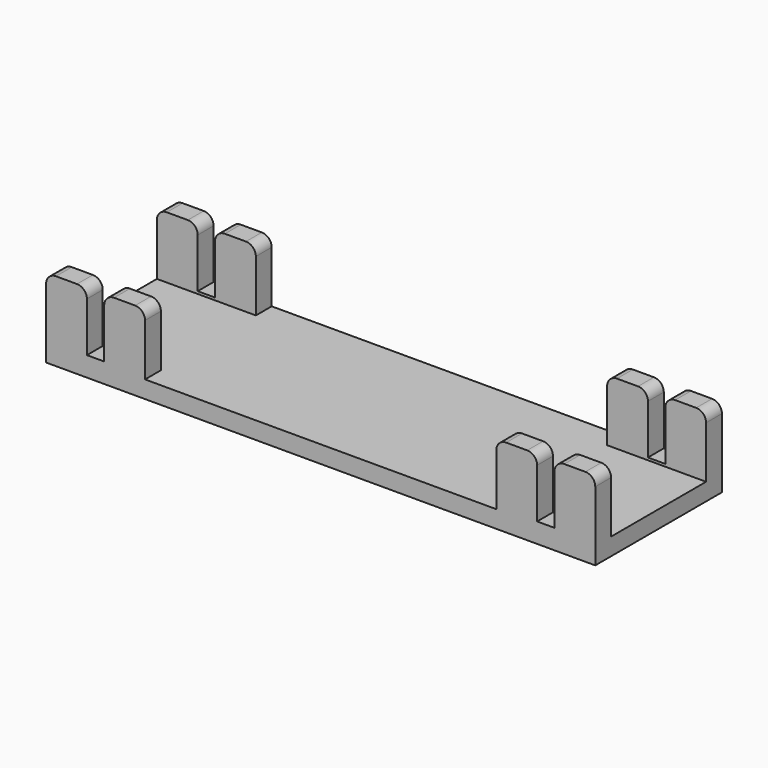
from build123d import *

# Parameters (mm, degrees)
BOX001_W     = 1.75
BOX001_H     = 2
BOX001_DEPTH = 10
BOX_W        = 10
BOX_H        = 2
BOX_DEPTH    = 8
FILLET_R     = 1
BOX003_W     = 1.75
BOX003_H     = 2
BOX003_DEPTH = 10
BOX002_W     = 10
BOX002_H     = 2
BOX002_DEPTH = 8
FILLET001_R  = 1
BOX005_W     = 1.75
BOX005_H     = 2
BOX005_DEPTH = 10
BOX004_W     = 10
BOX004_H     = 2
BOX004_DEPTH = 8
FILLET002_R  = 1
BOX007_W     = 1.75
BOX007_H     = 2
BOX007_DEPTH = 10
BOX006_W     = 10
BOX006_H     = 2
BOX006_DEPTH = 8
FILLET003_R  = 1
BOX008_W     = 55.5
BOX008_H     = 16
BOX008_DEPTH = 1.75


with BuildPart() as cube001:
    # Box001 → Box001 (new body)
    with BuildSketch(Plane(origin=(4.125, 0, 2), x_dir=(1, 0, 0), z_dir=(0, 0, 1))):
        with Locations((0.875, 1)):
            Rectangle(BOX001_W, BOX001_H)
    extrude(amount=BOX001_DEPTH)


with BuildPart() as post01:
    # Box → Box (new body)
    with BuildSketch(Plane.XY):
        with Locations((5, 1)):
            Rectangle(BOX_W, BOX_H)
    extrude(amount=BOX_DEPTH)

    # Cut: cut Cube001
    add(cube001.part, mode=Mode.SUBTRACT)

    # Fillet
    fillet_edges = [post01.edges().sort_by_distance(p)[0] for p in [
        (0, 1, 8),
        (4.125, 1, 8),
        (10, 1, 8),
        (5.875, 1, 8),
    ]]
    fillet(fillet_edges, radius=FILLET_R)


with BuildPart() as cube003:
    # Box003 → Box003 (new body)
    with BuildSketch(Plane(origin=(4.125, 0, 2), x_dir=(1, 0, 0), z_dir=(0, 0, 1))):
        with Locations((0.875, 1)):
            Rectangle(BOX003_W, BOX003_H)
    extrude(amount=BOX003_DEPTH)


with BuildPart() as post002:
    # Box002 → Box002 (new body)
    with BuildSketch(Plane.XY):
        with Locations((5, 1)):
            Rectangle(BOX002_W, BOX002_H)
    extrude(amount=BOX002_DEPTH)

    # Cut001: cut Cube003
    add(cube003.part, mode=Mode.SUBTRACT)

    # Fillet001
    fillet001_edges = [post002.edges().sort_by_distance(p)[0] for p in [
        (0, 1, 8),
        (4.125, 1, 8),
        (10, 1, 8),
        (5.875, 1, 8),
    ]]
    fillet(fillet001_edges, radius=FILLET001_R)


with BuildPart() as post002_1:
    # Fillet001 placement: moved
    add(post002.part.moved(Location((0, 14, 0))))


with BuildPart() as cube005:
    # Box005 → Box005 (new body)
    with BuildSketch(Plane(origin=(4.125, 0, 2), x_dir=(1, 0, 0), z_dir=(0, 0, 1))):
        with Locations((0.875, 1)):
            Rectangle(BOX005_W, BOX005_H)
    extrude(amount=BOX005_DEPTH)


with BuildPart() as post003:
    # Box004 → Box004 (new body)
    with BuildSketch(Plane.XY):
        with Locations((5, 1)):
            Rectangle(BOX004_W, BOX004_H)
    extrude(amount=BOX004_DEPTH)

    # Cut002: cut Cube005
    add(cube005.part, mode=Mode.SUBTRACT)

    # Fillet002
    fillet002_edges = [post003.edges().sort_by_distance(p)[0] for p in [
        (0, 1, 8),
        (4.125, 1, 8),
        (10, 1, 8),
        (5.875, 1, 8),
    ]]
    fillet(fillet002_edges, radius=FILLET002_R)


with BuildPart() as post003_1:
    # Fillet002 placement: moved
    add(post003.part.moved(Location((45.5, 0, 0))))


with BuildPart() as cube007:
    # Box007 → Box007 (new body)
    with BuildSketch(Plane(origin=(4.125, 0, 2), x_dir=(1, 0, 0), z_dir=(0, 0, 1))):
        with Locations((0.875, 1)):
            Rectangle(BOX007_W, BOX007_H)
    extrude(amount=BOX007_DEPTH)


with BuildPart() as post004:
    # Box006 → Box006 (new body)
    with BuildSketch(Plane.XY):
        with Locations((5, 1)):
            Rectangle(BOX006_W, BOX006_H)
    extrude(amount=BOX006_DEPTH)

    # Cut003: cut Cube007
    add(cube007.part, mode=Mode.SUBTRACT)

    # Fillet003
    fillet003_edges = [post004.edges().sort_by_distance(p)[0] for p in [
        (0, 1, 8),
        (4.125, 1, 8),
        (10, 1, 8),
        (5.875, 1, 8),
    ]]
    fillet(fillet003_edges, radius=FILLET003_R)


with BuildPart() as post004_1:
    # Fillet003 placement: moved
    add(post004.part.moved(Location((45.5, 14, 0))))


with BuildPart() as axlejig:
    # Box008 → Box008 (new body)
    with BuildSketch(Plane.XY):
        with Locations((27.75, 8)):
            Rectangle(BOX008_W, BOX008_H)
    extrude(amount=BOX008_DEPTH)

    # Fusion: union post01, post002, post003, post004
    add(post01.part)
    add(post002_1.part)
    add(post003_1.part)
    add(post004_1.part)


solid = axlejig.part
